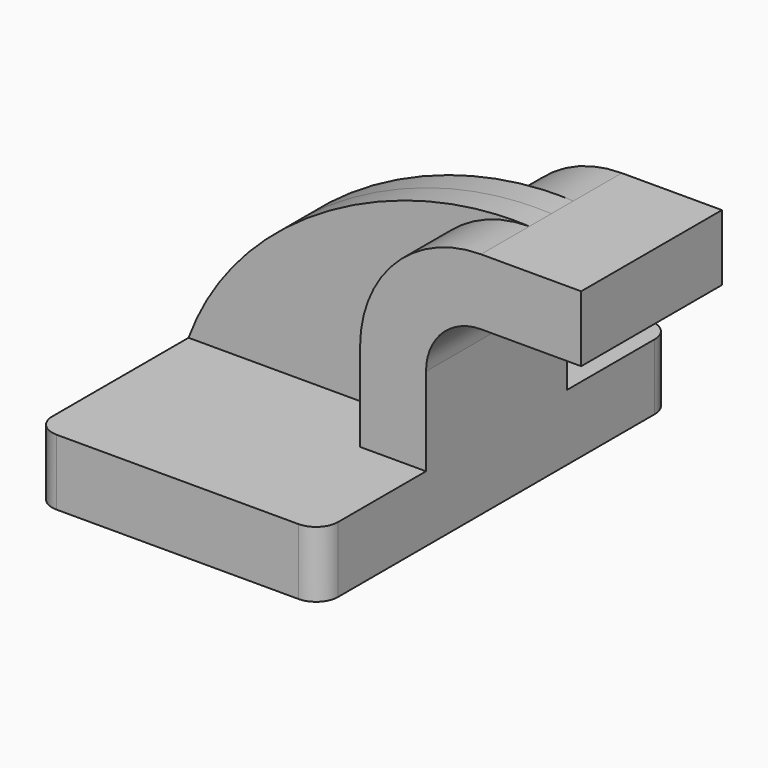
from build123d import *

# Parameters (mm, degrees)
F1_DEPTH = 63.5
F0_W     = 25.755785
F0_H     = 19.05
F2_DEPTH = 25.4
F3_DEPTH = 7.9375
F4_R     = 6.35


with BuildPart() as f1:
    # F0 (on Front) → F1 (new body, symmetric)
    with BuildSketch(Plane.XZ):
        Polygon((41.275, -9.525), (41.275, 9.525), (22.225, 9.525), (-41.275, 9.525), (-41.275, -9.525), align=None)
    extrude(amount=F1_DEPTH, both=True)

    # F0 (on Front) → F2 (join, symmetric)
    with BuildSketch(Plane.XZ):
        with BuildLine():
            Line((22.225, 9.525), (41.275, 9.525))
            Line((41.275, 9.525), (41.275, 34.925))
            ThreePointArc((41.275, 34.925), (45.92468, 46.15032), (57.15, 50.8))
            Line((57.15, 50.8), (60.325, 50.8))
            Line((60.325, 50.8), (60.325, 69.85))
            Line((60.325, 69.85), (57.15, 69.85))
            ThreePointArc((57.15, 69.85), (32.454296, 59.620704), (22.225, 34.925))
            Line((22.225, 34.925), (22.225, 9.525))
        make_face()
        with Locations((73.202892, 60.325)):
            Rectangle(F0_W, F0_H)
    extrude(amount=F2_DEPTH, both=True)

    # F0 (on Front) → F3 (join, symmetric)
    with BuildSketch(Plane.XZ):
        with BuildLine():
            Line((-41.275, 9.525), (22.225, 9.525))
            Line((22.225, 9.525), (22.225, 34.925))
            ThreePointArc((22.225, 34.925), (32.454296, 59.620704), (57.15, 69.85))
            add(Edge.make_bspline(
                [(-41.275, 9.525), (-27.324263, 47.769934), (18.911634, 71.788173), (57.15, 69.85)],
                knots=[0, 0, 0, 0, 115.440834, 115.440834, 115.440834, 115.440834], degree=3))
        make_face()
    extrude(amount=F3_DEPTH, both=True)

    # F4
    f4_edges = [f1.edges().sort_by_distance(p)[0] for p in [
        (41.275, -63.5, 0),
        (-41.275, -63.5, 0),
        (41.275, 63.5, 0),
        (-41.275, 63.5, 0),
    ]]
    fillet(f4_edges, radius=F4_R)


solid = f1.part
